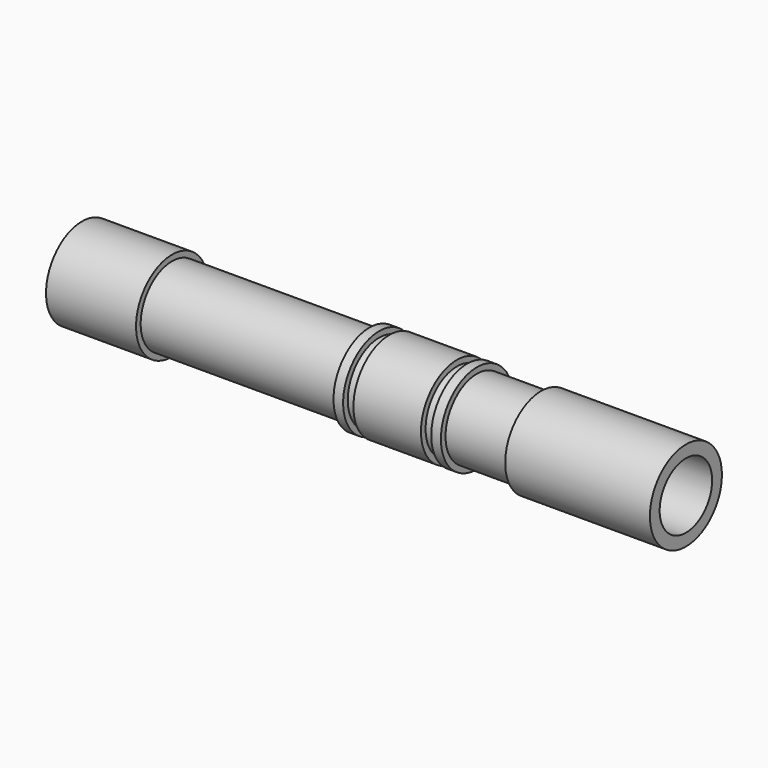
from build123d import *

# Parameters (mm, degrees)
F0_R      = 8.89
F1_DEPTH  = 17.78
F2_R      = 7.747
F3_DEPTH  = 38.989
F4_R      = 8.89
F5_DEPTH  = 1.905
F6_R      = 7.747
F7_DEPTH  = 2.032
F8_R      = 8.89
F9_DEPTH  = 13.335
F10_R     = 7.747
F11_DEPTH = 2.032
F12_R     = 8.89
F13_DEPTH = 1.905
F14_R     = 7.747
F15_DEPTH = 12.7
F16_R     = 8.89
F17_DEPTH = 28.575
F18_R     = 6.477
F19_DEPTH = 27.559


with BuildPart() as f1:
    # F0 (on Right) → F1 (new body)
    with BuildSketch(Plane.YZ):
        Circle(F0_R)
    extrude(amount=F1_DEPTH)

    # F2 (on face) → F3 (join)
    with BuildSketch(Plane.YZ.offset(17.78)):
        Circle(F2_R)
    extrude(amount=F3_DEPTH)

    # F4 (on face) → F5 (join)
    with BuildSketch(Plane.YZ.offset(56.769)):
        Circle(F4_R)
    extrude(amount=F5_DEPTH)

    # F6 (on face) → F7 (join)
    with BuildSketch(Plane.YZ.offset(58.674)):
        Circle(F6_R)
    extrude(amount=F7_DEPTH)

    # F8 (on face) → F9 (join)
    with BuildSketch(Plane.YZ.offset(60.706)):
        Circle(F8_R)
    extrude(amount=F9_DEPTH)

    # F10 (on face) → F11 (join)
    with BuildSketch(Plane.YZ.offset(74.041)):
        Circle(F10_R)
    extrude(amount=F11_DEPTH)

    # F12 (on face) → F13 (join)
    with BuildSketch(Plane.YZ.offset(76.073)):
        Circle(F12_R)
    extrude(amount=F13_DEPTH)

    # F14 (on face) → F15 (join)
    with BuildSketch(Plane.YZ.offset(77.978)):
        Circle(F14_R)
    extrude(amount=F15_DEPTH)

    # F16 (on face) → F17 (join)
    with BuildSketch(Plane.YZ.offset(90.678)):
        Circle(F16_R)
    extrude(amount=F17_DEPTH)

    # F18 (on face) → F19 (cut)
    with BuildSketch(Plane.YZ.offset(119.253)):
        Circle(F18_R)
    extrude(amount=-F19_DEPTH, mode=Mode.SUBTRACT)


solid = f1.part
